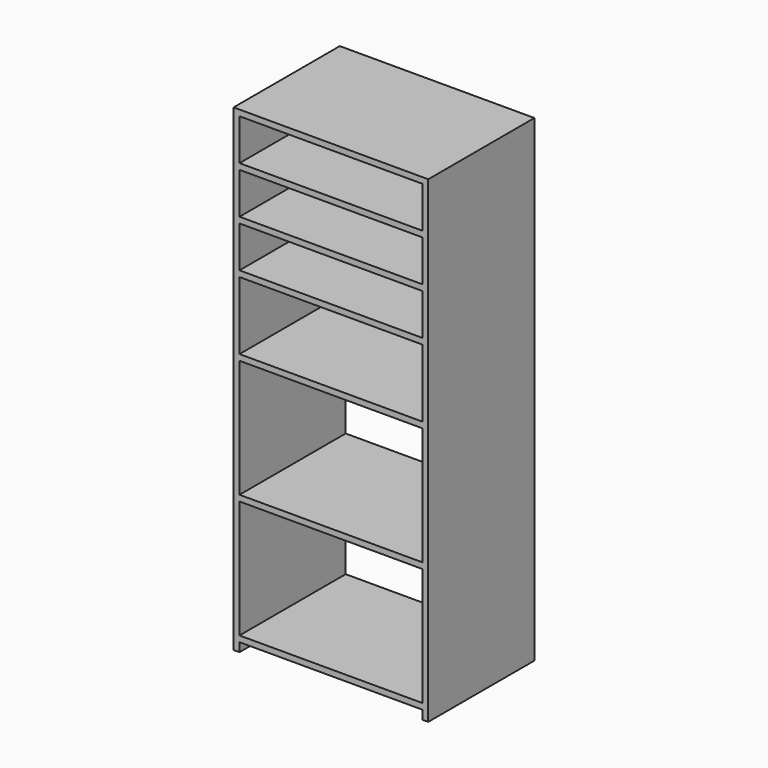
from build123d import *

# Parameters (mm, degrees)
F0_W     = 620
F0_H     = 400
F0_H_2   = 230
F0_H_3   = 140
F1_DEPTH = 450


with BuildPart() as f1:
    # F0 (on Front) → F1 (new body)
    with BuildSketch(Plane.XZ):
        Polygon((0, 1620), (0, 0), (20, 0), (20, 30), (640, 30), (640, 0), (660, 0), (660, 1620), align=None)
        with Locations((330, 250)):
            Rectangle(F0_W, F0_H, mode=Mode.SUBTRACT)
        with Locations((330, 670)):
            Rectangle(F0_W, F0_H, mode=Mode.SUBTRACT)
        with Locations((330, 1005)):
            Rectangle(F0_W, F0_H_2, mode=Mode.SUBTRACT)
        with Locations((330, 1210)):
            Rectangle(F0_W, F0_H_3, mode=Mode.SUBTRACT)
        with Locations((330, 1370)):
            Rectangle(F0_W, F0_H_3, mode=Mode.SUBTRACT)
        with Locations((330, 1530)):
            Rectangle(F0_W, F0_H_3, mode=Mode.SUBTRACT)
    extrude(amount=F1_DEPTH)


solid = f1.part
